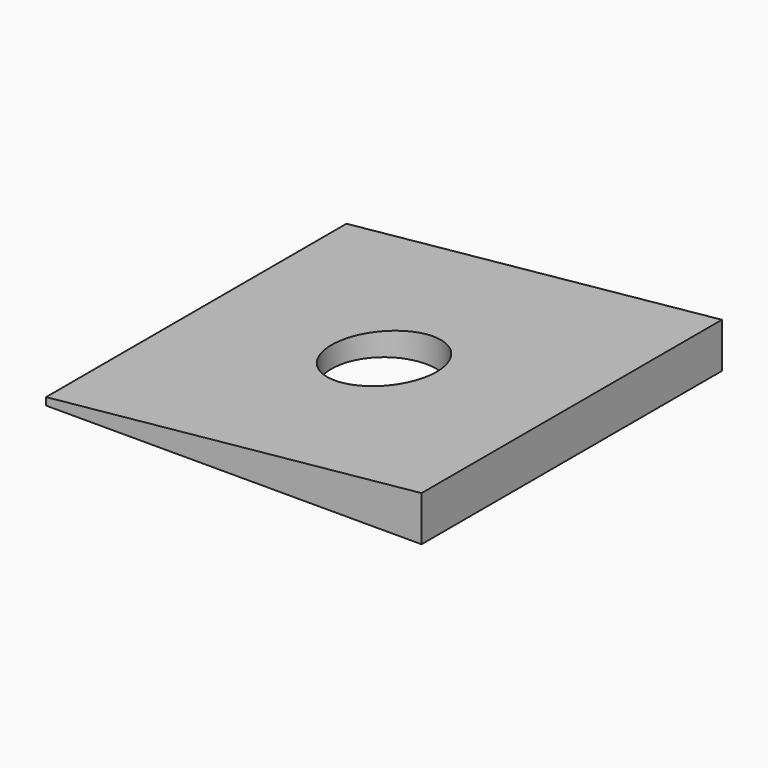
from build123d import *

# Parameters (mm, degrees)
F1_DEPTH      = 25
F1_DEPTH_BACK = 25
F2_R          = 7
F3_DEPTH      = 25
F3_DEPTH_BACK = 32.4


with BuildPart() as f1:
    # F0 (on Front) → F1 (new body, two sides)
    with BuildSketch(Plane.XZ) as f1_sk:
        Polygon((-25, 0), (25, 0), (25, 6), (-25, 1), align=None)
    extrude(amount=F1_DEPTH)
    extrude(f1_sk.sketch, amount=-F1_DEPTH_BACK)

    # F2 (on Top) → F3 (cut, two sides)
    with BuildSketch(Plane.XY) as f3_sk:
        Circle(F2_R)
    extrude(amount=-F3_DEPTH, mode=Mode.SUBTRACT)
    extrude(f3_sk.sketch, amount=F3_DEPTH_BACK, mode=Mode.SUBTRACT)


solid = f1.part
